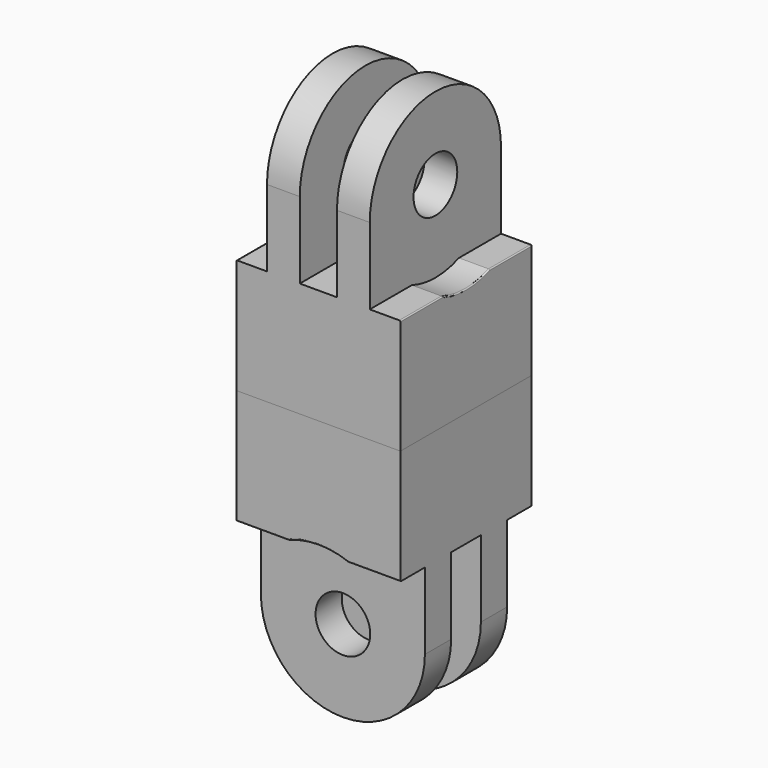
from build123d import *

# Parameters (mm, degrees)
F1_R      = 2.5
F2_DEPTH  = 7.5
F3_W      = 3.4
F3_H      = 15.4505071864
F3_W_2    = 3.8797123611
F3_W_3    = 3.8316924378
F4_DEPTH  = 16.41578
F6_DEPTH  = 2.8
F8_DEPTH  = 2.8
F9_R      = 0.1
F10_W     = 15
F10_H     = 15
F11_DEPTH = 5
F14_ANGLE = 90


with BuildPart() as f2:
    # F1 (on Right) → F2 (new body, symmetric)
    with BuildSketch(Plane.YZ):
        with BuildLine():
            Line((7.5, -12.5), (7.5, 0))
            ThreePointArc((7.5, 0), (0, 7.5), (-7.5, 0))
            Line((-7.5, 0), (-7.5, -12.5))
            Line((-7.5, -12.5), (7.5, -12.5))
        make_face()
        Circle(F1_R, mode=Mode.SUBTRACT)
    extrude(amount=F2_DEPTH, both=True)

    # F3 (on Front) → F4 (cut, symmetric)
    with BuildSketch(Plane.XZ):
        with Locations((0, 0.7252535932)):
            Rectangle(F3_W, F3_H)
        with Locations((-6.6398561805, 0.7252535932)):
            Rectangle(F3_W_2, F3_H)
        with Locations((6.6158462189, 0.7252535932)):
            Rectangle(F3_W_3, F3_H)
    extrude(amount=F4_DEPTH, both=True, mode=Mode.SUBTRACT)

    # F5 (on face) → F6 (cut, through all)
    with BuildSketch(Plane(origin=(-7.5, 0, 0), x_dir=(0, -1, 0), z_dir=(-1, 0, 0))):
        with BuildLine():
            ThreePointArc((2.6925824036, -7), (6.1824092402, -4.2459175671), (7.5, 0))
            ThreePointArc((7.5, 0), (-4.2459175671, 6.1824092402), (-2.6925824036, -7))
            Line((-2.6925824036, -7), (2.6925824036, -7))
        make_face()
        with BuildLine():
            Line((2.6925824036, -7), (-2.6925824036, -7))
            ThreePointArc((-2.6925824036, -7), (0, -7.5), (2.6925824036, -7))
        make_face()
    extrude(amount=-F6_DEPTH, mode=Mode.SUBTRACT)

    # F7 (on face) → F8 (cut, through all)
    with BuildSketch(Plane.YZ.offset(7.5)):
        with BuildLine():
            Line((2.6925824036, -7), (-2.6925824036, -7))
            ThreePointArc((-2.6925824036, -7), (0, -7.5), (2.6925824036, -7))
        make_face()
        with BuildLine():
            ThreePointArc((2.6925824036, -7), (6.1824092402, -4.2459175671), (7.5, 0))
            ThreePointArc((7.5, 0), (-4.2459175671, 6.1824092402), (-2.6925824036, -7))
            Line((-2.6925824036, -7), (2.6925824036, -7))
        make_face()
    extrude(amount=-F8_DEPTH, mode=Mode.SUBTRACT)

    # F9
    f9_edges = [f2.edges().sort_by_distance(p)[0] for p in [
        (7.5, -5.096291, -7),
        (7.5, 0, -7.5),
        (7.5, 5.096291, -7),
        (-7.5, 5.096291, -7),
        (-7.5, 0, -7.5),
        (-7.5, -5.096291, -7),
    ]]
    fillet(f9_edges, radius=F9_R)

    # F10 (on face) → F11 (join)
    with BuildSketch(Plane(origin=(0, 0, -12.5), x_dir=(1, 0, 0), z_dir=(0, 0, -1))):
        Rectangle(F10_W, F10_H)
    extrude(amount=F11_DEPTH)


with BuildPart() as f12_1:
    # F12: instance of F2
    add(f2.part.mirror(Plane(origin=(0, 0, -17.5), x_dir=(1, 0, 0), z_dir=(0, 0, -1))))


with BuildPart() as f12_1_1:
    # F14: moved
    add(f12_1.part.rotate(Axis((0, 0, -17.4657253083), (0, 0, -1)), F14_ANGLE))


solid = Compound([f2.part, f12_1_1.part])
